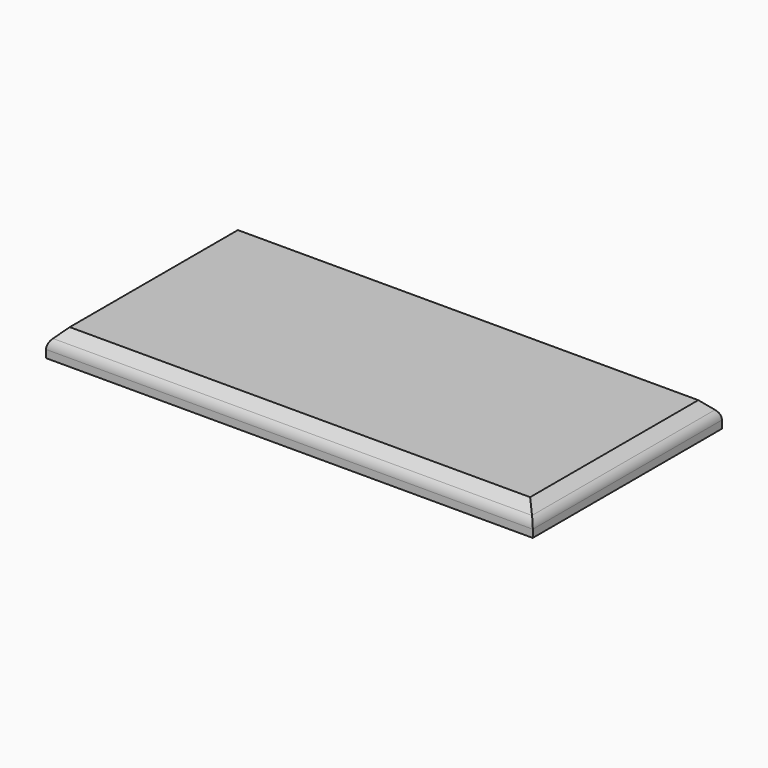
from build123d import *

# Parameters (mm, degrees)
SKETCH_W        = 37.05
SKETCH_H        = 18
PAD_DEPTH       = 2
CHAMFER_SIZE    = 1
FILLET_R        = 1
SKETCH001_W     = 1.2
SKETCH001_H     = 3
PAD001_DEPTH    = 4.5
CHAMFER001_SIZE = 0.2


with BuildPart() as part:
    # Sketch → Pad (new body)
    with BuildSketch(Plane.XY):
        Rectangle(SKETCH_W, SKETCH_H)
    extrude(amount=PAD_DEPTH)

    # Chamfer
    chamfer_edges = [part.edges().sort_by_distance(p)[0] for p in [
        (-18.525, 0, 2),
        (0, 9, 2),
        (18.525, 0, 2),
        (0, -9, 2),
    ]]
    chamfer(chamfer_edges, length=CHAMFER_SIZE)

    # Fillet
    fillet_edges = [part.edges().sort_by_distance(p)[0] for p in [
        (0, -9, 1),
        (18.525, 0, 1),
        (-18.525, 0, 1),
        (0, 9, 1),
    ]]
    fillet(fillet_edges, radius=FILLET_R)

    # Sketch001 (on Face4 of Fillet) → Pad001 (join)
    with BuildSketch(Plane(origin=(0, 0, 0), x_dir=(1, 0, 0), z_dir=(0, 0, -1))):
        with Locations((-2.85, 0)):
            Rectangle(SKETCH001_W, SKETCH001_H)
        with Locations((2.85, 0)):
            Rectangle(SKETCH001_W, SKETCH001_H)
    extrude(amount=PAD001_DEPTH)

    # Chamfer001
    chamfer001_edges = [part.edges().sort_by_distance(p)[0] for p in [
        (2.85, 1.5, -4.5),
        (3.45, 0, -4.5),
        (2.85, -1.5, -4.5),
        (2.25, 0, -4.5),
        (3.45, 1.5, -2.25),
        (2.25, 1.5, -2.25),
        (3.45, -1.5, -2.25),
        (2.25, -1.5, -2.25),
        (-2.25, 0, -4.5),
        (-2.85, -1.5, -4.5),
        (-3.45, 0, -4.5),
        (-2.85, 1.5, -4.5),
        (-2.25, -1.5, -2.25),
        (-3.45, -1.5, -2.25),
        (-3.45, 1.5, -2.25),
        (-2.25, 1.5, -2.25),
    ]]
    chamfer(chamfer001_edges, length=CHAMFER001_SIZE)


solid = part.part
